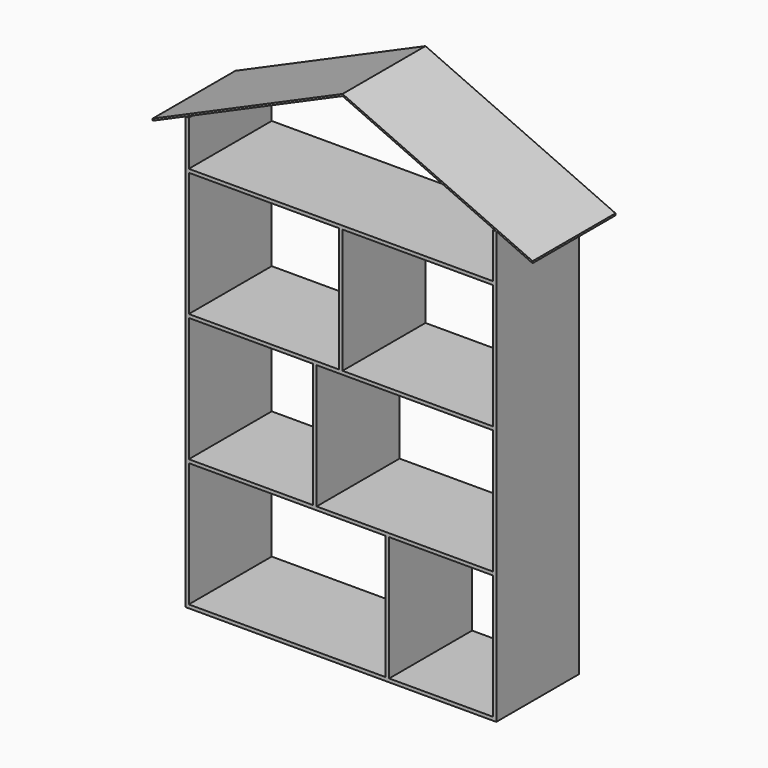
from build123d import *

# Parameters (mm, degrees)
F0_W     = 570
F0_H     = 360
F0_W_2   = 360
F0_W_3   = 300
F0_W_4   = 510
F0_W_5   = 435
F1_DEPTH = 300


with BuildPart() as f1:
    # F0 (on Front) → F1 (new body)
    with BuildSketch(Plane.XZ):
        Polygon((-95, 1198.241758), (0, 1240), (455, 1440), (900, 1240), (1005, 1192.808989), (1005, 1198.290765), (455.022565, 1445.471634), (-95, 1203.703474), align=None)
        Polygon((0, 1240), (0, -10), (900, -10), (900, 1240), (890, 1240), (890, 1110), (10, 1110), (10, 1240), align=None)
        with Locations((295, 180)):
            Rectangle(F0_W, F0_H, mode=Mode.SUBTRACT)
        with Locations((190, 550)):
            Rectangle(F0_W_2, F0_H, mode=Mode.SUBTRACT)
        with Locations((740, 180)):
            Rectangle(F0_W_3, F0_H, mode=Mode.SUBTRACT)
        with Locations((635, 550)):
            Rectangle(F0_W_4, F0_H, mode=Mode.SUBTRACT)
        with Locations((227.5, 920)):
            Rectangle(F0_W_5, F0_H, mode=Mode.SUBTRACT)
        with Locations((672.5, 920)):
            Rectangle(F0_W_5, F0_H, mode=Mode.SUBTRACT)
    extrude(amount=F1_DEPTH)


solid = f1.part
